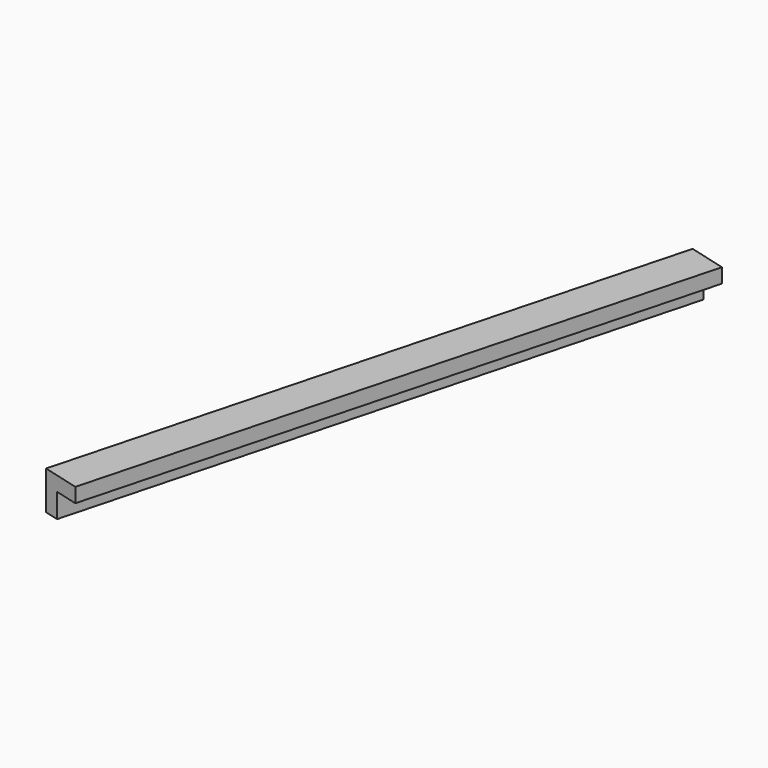
from build123d import *

# Parameters (mm, degrees)
BOX185_W               = 0.8
BOX185_H               = 13
BOX185_DEPTH           = 0.8
BOX186_W               = 0.8
BOX186_H               = 13
BOX186_DEPTH           = 0.8
CUT096_PLACEMENT_ANGLE = 165


with BuildPart() as cubo185:
    # Box185 → Box185 (new body)
    with BuildSketch(Plane.XY):
        with Locations((0.4, 6.5)):
            Rectangle(BOX185_W, BOX185_H)
    extrude(amount=BOX185_DEPTH)


with BuildPart() as obj1:
    # Box186 → Box186 (new body)
    with BuildSketch(Plane(origin=(0.3, 0, 0.3), x_dir=(1, 0, 0), z_dir=(0, 0, 1))):
        with Locations((0.4, 6.5)):
            Rectangle(BOX186_W, BOX186_H)
    extrude(amount=BOX186_DEPTH)

    # Cut096: cut Cubo185
    add(cubo185.part, mode=Mode.SUBTRACT)


with BuildPart() as obj1_1:
    # Cut096 placement: moved
    add(obj1.part.moved(Location((-127, 195.7, -1.45))).rotate(Axis((-127, 195.7, -1.45), (0, 0, 1)), CUT096_PLACEMENT_ANGLE))


solid = obj1_1.part
